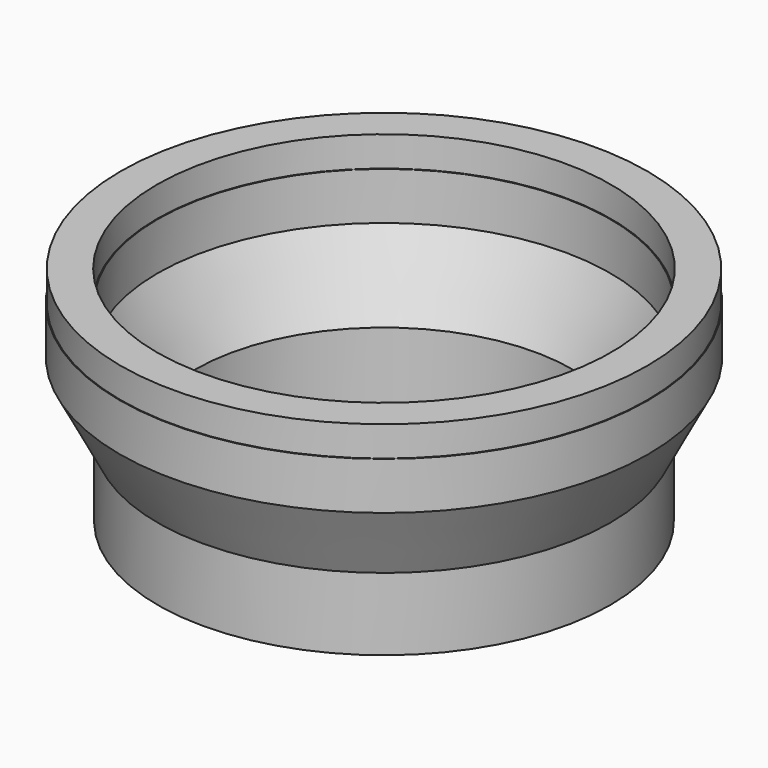
from build123d import *


with BuildPart() as f1:
    # F0 (on Front) → F1 (revolve)
    with BuildSketch(Plane.XZ):
        Polygon((-251, -254.865593), (-250, -254.865593), (-250, -158.865593), (-300, -62.865593), (-300, 0.134407), (-301, 0.134407), (-301, 40.134407), (-349, 40.134407), (-349, 0.134407), (-350, 0.134407), (-350, -62.865593), (-300, -158.865593), (-300, -254.865593), (-299, -254.865593), (-299, -214.865593), (-251, -214.865593), align=None)
    revolve(axis=Axis((0, 0, -0.829662), (0, 0, -1)))


solid = f1.part
